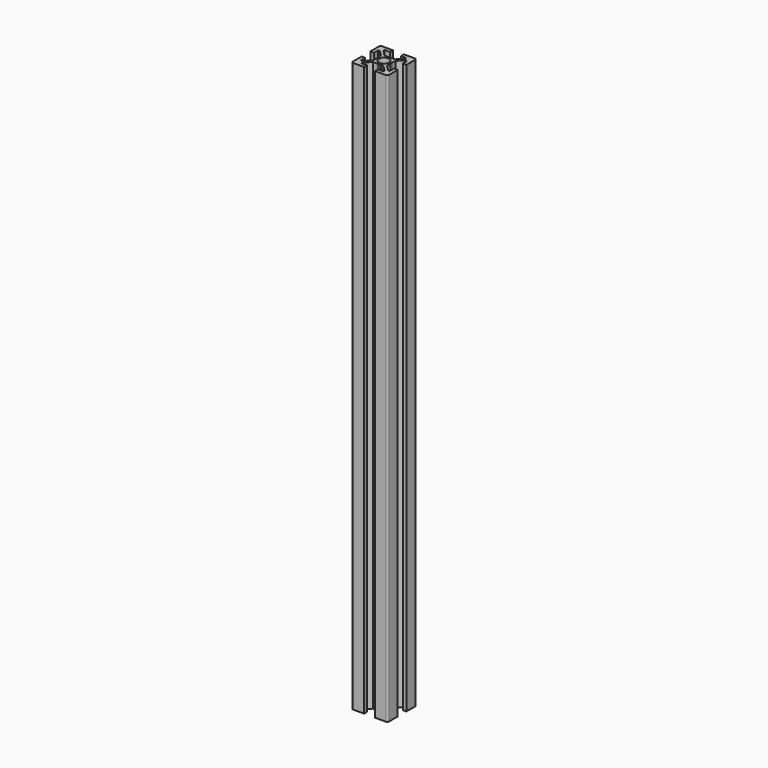
from build123d import *

# Parameters (mm, degrees)
SKETCH001_R = 2.9
PAD_DEPTH   = 157.5


with BuildPart() as part:
    # Sketch001 → Pad (new body, symmetric)
    with BuildSketch(Plane.XY):
        with BuildLine():
            Line((-8, -3), (-10, -3))
            Line((-10, -3), (-10, -9))
            ThreePointArc((-10, -9), (-9.707107, -9.707107), (-9, -10))
            Line((-9, -10), (-3, -10))
            Line((-3, -10), (-3, -8))
            Line((-3, -8), (-6, -8))
            Line((-6, -8), (-6, -7.06066))
            Line((-6, -7.06066), (-2.93934, -4))
            Line((-2.93934, -4), (-0.65359, -4))
            ThreePointArc((-0.65359, -4), (-0.52418, -3.982963), (-0.40359, -3.933013))
            Line((-0.40359, -3.933013), (0, -3.7))
            Line((0, -3.7), (0.40359, -3.933013))
            ThreePointArc((0.40359, -3.933013), (0.65359, -4), (0.90359, -3.933013))
            Line((0.90359, -3.933013), (1.218886, -3.750977))
            Line((1.218886, -3.750977), (2.5, -4))
            Line((2.5, -4), (2.93934, -4))
            Line((2.93934, -4), (6, -7.06066))
            Line((6, -7.06066), (6, -8))
            Line((6, -8), (3, -8))
            Line((3, -8), (3, -10))
            Line((3, -10), (9, -10))
            ThreePointArc((9, -10), (9.707107, -9.707107), (10, -9))
            Line((10, -9), (10, -3))
            Line((10, -3), (8, -3))
            Line((8, -3), (8, -6))
            Line((8, -6), (7.06066, -6))
            Line((7.06066, -6), (4, -2.93934))
            Line((4, -2.93934), (4, -0.65359))
            ThreePointArc((4, -0.65359), (3.982963, -0.52418), (3.933013, -0.40359))
            Line((3.933013, -0.40359), (3.7, 0))
            Line((3.7, 0), (3.933013, 0.40359))
            ThreePointArc((3.933013, 0.40359), (4, 0.65359), (3.933013, 0.90359))
            Line((3.933013, 0.90359), (3.750977, 1.218886))
            Line((3.750977, 1.218886), (4, 2.5))
            Line((4, 2.5), (4, 2.93934))
            Line((4, 2.93934), (7.06066, 6))
            Line((7.06066, 6), (8, 6))
            Line((8, 6), (8, 3))
            Line((8, 3), (10, 3))
            Line((10, 3), (10, 9))
            ThreePointArc((10, 9), (9.707107, 9.707107), (9, 10))
            Line((9, 10), (3, 10))
            Line((3, 10), (3, 8))
            Line((3, 8), (6, 8))
            Line((6, 8), (6, 7.06066))
            Line((6, 7.06066), (2.93934, 4))
            Line((2.93934, 4), (0.65359, 4))
            ThreePointArc((0.65359, 4), (0.52418, 3.982963), (0.40359, 3.933013))
            Line((0.40359, 3.933013), (0, 3.7))
            Line((0, 3.7), (-0.40359, 3.933013))
            ThreePointArc((-0.40359, 3.933013), (-0.65359, 4), (-0.90359, 3.933013))
            Line((-0.90359, 3.933013), (-1.218886, 3.750977))
            Line((-1.218886, 3.750977), (-2.5, 4))
            Line((-2.5, 4), (-2.93934, 4))
            Line((-2.93934, 4), (-6, 7.06066))
            Line((-6, 7.06066), (-6, 8))
            Line((-6, 8), (-3, 8))
            Line((-3, 8), (-3, 10))
            Line((-3, 10), (-9, 10))
            ThreePointArc((-9, 10), (-9.707107, 9.707107), (-10, 9))
            Line((-10, 9), (-10, 3))
            Line((-10, 3), (-8, 3))
            Line((-8, 3), (-8, 6))
            Line((-8, 6), (-7.06066, 6))
            Line((-7.06066, 6), (-4, 2.93934))
            Line((-4, 2.93934), (-4, 0.65359))
            ThreePointArc((-4, 0.65359), (-3.982963, 0.52418), (-3.933013, 0.40359))
            Line((-3.933013, 0.40359), (-3.7, 0))
            Line((-3.7, 0), (-3.933013, -0.40359))
            ThreePointArc((-3.933013, -0.40359), (-4, -0.65359), (-3.933013, -0.90359))
            Line((-3.933013, -0.90359), (-3.750977, -1.218886))
            Line((-3.750977, -1.218886), (-4, -2.5))
            Line((-4, -2.5), (-4, -2.93934))
            Line((-4, -2.93934), (-7.06066, -6))
            Line((-7.06066, -6), (-8, -6))
            Line((-8, -6), (-8, -3))
        make_face()
        Circle(SKETCH001_R, mode=Mode.SUBTRACT)
    extrude(amount=PAD_DEPTH, both=True)


solid = part.part
